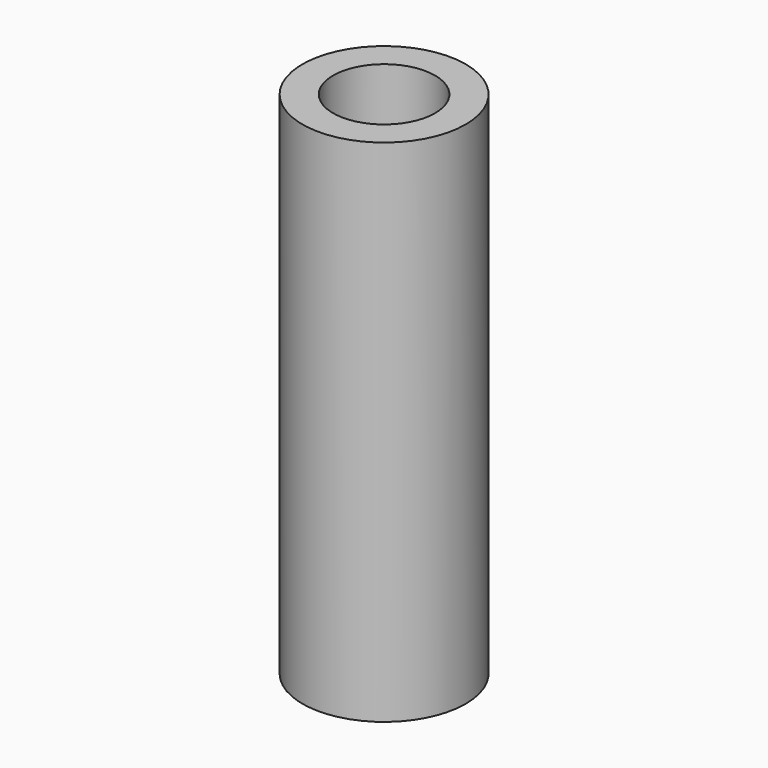
from build123d import *

# Parameters (mm, degrees)
SKETCH_R   = 4
SKETCH_R_2 = 2.5
PAD_DEPTH  = 25


with BuildPart() as part:
    # Sketch → Pad (new body)
    with BuildSketch(Plane.XY):
        Circle(SKETCH_R)
        Circle(SKETCH_R_2, mode=Mode.SUBTRACT)
    extrude(amount=PAD_DEPTH)


solid = part.part
